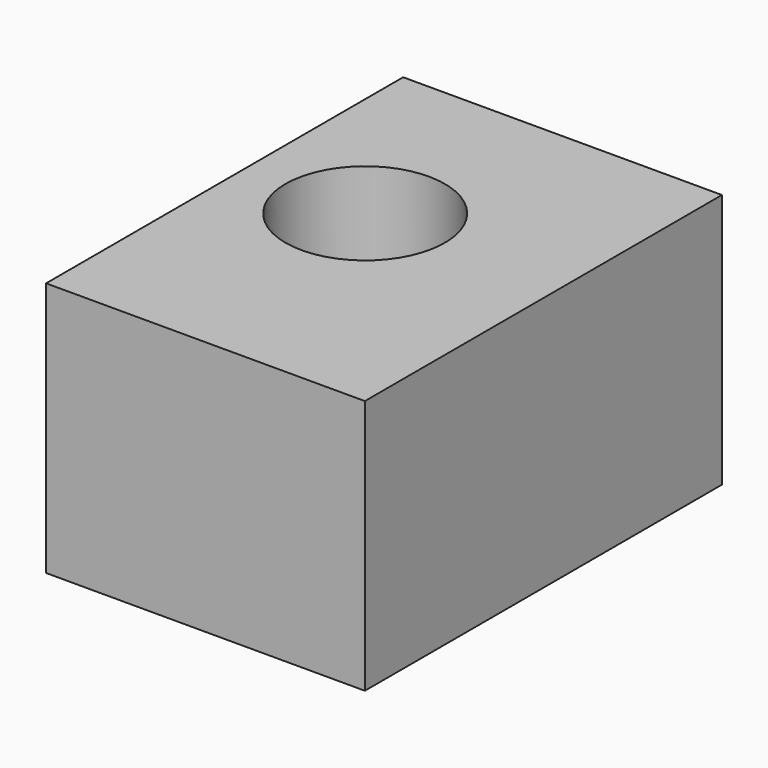
from build123d import *

# Parameters (mm, degrees)
F0_W     = 254
F0_H     = 203.2
F1_DEPTH = 355.6
F3_D     = 127
F3_DEPTH = 355.6


with BuildPart() as f1:
    # F0 (on Front) → F1 (new body)
    with BuildSketch(Plane.XZ):
        with Locations((-6.110847, -0.653595)):
            Rectangle(F0_W, F0_H)
    extrude(amount=F1_DEPTH)

    # F3
    with Locations(Plane.XY.offset(100.946405)):
        with Locations((-36.981203, -157.977998)):
            Hole(F3_D / 2, depth=F3_DEPTH)


solid = f1.part
